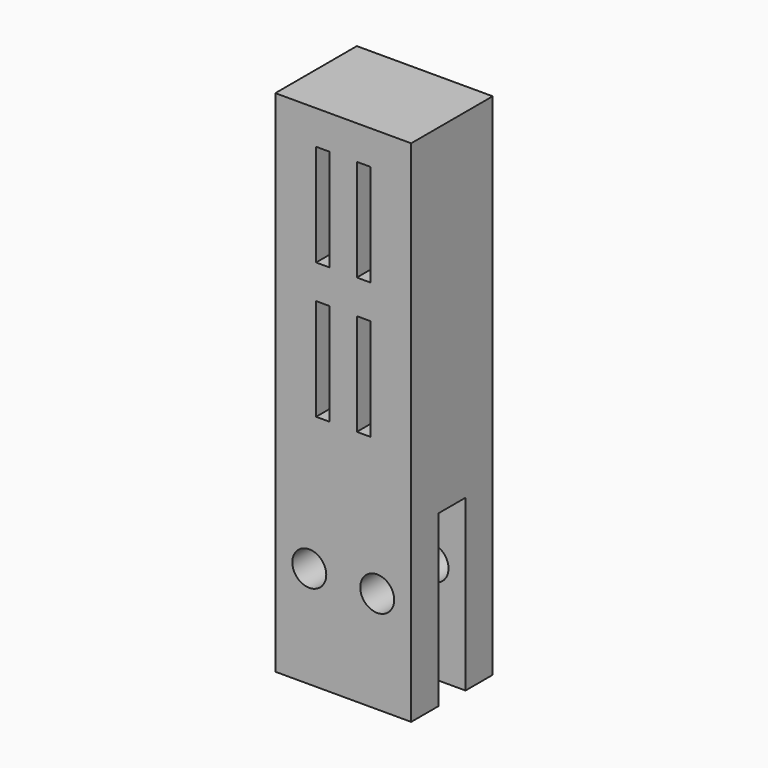
from build123d import *

# Parameters (mm, degrees)
F0_W     = 2
F0_H     = 15
F0_W_2   = 20
F0_H_2   = 5
F1_DEPTH = 7.5
F2_START = 2.5
F0_H_3   = 20
F0_R     = 2.5
F0_H_4   = 4.9999991059
F2_DEPTH = 5
F3_START = -2.5
F3_DEPTH = 5


with BuildPart() as f1:
    # F0 (on Front) → F1 (new body, symmetric)
    with BuildSketch(Plane.XZ):
        Polygon((10, -10), (10, 35), (-10, 35), (-10, 17), (-10, 15), (-10, -10), align=None)
        with Locations((-3, 2.5)):
            Rectangle(F0_W, F0_H, mode=Mode.SUBTRACT)
        with Locations((-3, 22.5)):
            Rectangle(F0_W, F0_H, mode=Mode.SUBTRACT)
        with Locations((3, 2.5)):
            Rectangle(F0_W, F0_H, mode=Mode.SUBTRACT)
        with Locations((3, 22.5)):
            Rectangle(F0_W, F0_H, mode=Mode.SUBTRACT)
        with Locations((0, -12.5)):
            Rectangle(F0_W_2, F0_H_2)
    extrude(amount=F1_DEPTH, both=True)

    # F0 (on Front) → F2 (join)
    with BuildSketch(Plane.XZ.offset(F2_START)):
        with Locations((0, -12.5)):
            Rectangle(F0_W_2, F0_H_2)
        with Locations((0, -25)):
            Rectangle(F0_W_2, F0_H_3)
        with Locations((-5, -25)):
            Circle(F0_R, mode=Mode.SUBTRACT)
        with Locations((5, -25)):
            Circle(F0_R, mode=Mode.SUBTRACT)
        with Locations((0, -37.499999553)):
            Rectangle(F0_W_2, F0_H_4)
    extrude(amount=F2_DEPTH)

    # F0 (on Front) → F3 (join)
    with BuildSketch(Plane.XZ.offset(F3_START)):
        with Locations((0, -12.5)):
            Rectangle(F0_W_2, F0_H_2)
        with Locations((0, -25)):
            Rectangle(F0_W_2, F0_H_3)
        with Locations((-5, -25)):
            Circle(F0_R, mode=Mode.SUBTRACT)
        with Locations((5, -25)):
            Circle(F0_R, mode=Mode.SUBTRACT)
        with Locations((0, -37.499999553)):
            Rectangle(F0_W_2, F0_H_4)
    extrude(amount=-F3_DEPTH)


solid = f1.part
